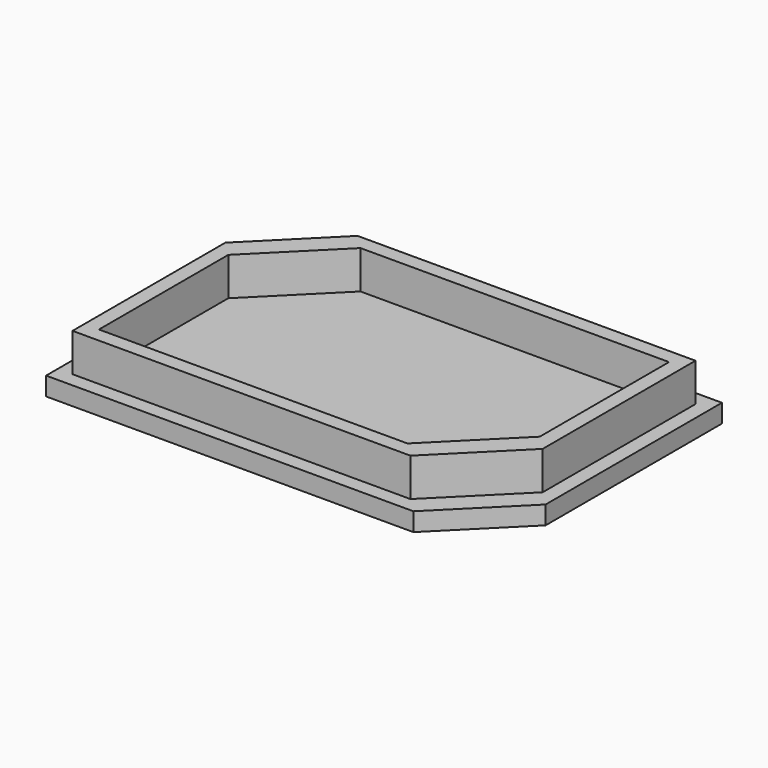
from build123d import *

# Parameters (mm, degrees)
F0_W     = 30
F0_H     = 20
F1_DEPTH = 1.25
F2_W     = 28
F2_H     = 18
F3_DEPTH = 2.6
F4_W     = 26
F4_H     = 16
F5_DEPTH = 2.6
F6_SIZE  = 5
F7_SIZE  = 5


with BuildPart() as f1:
    # F0 (on Top) → F1 (new body)
    with BuildSketch(Plane.XY):
        Rectangle(F0_W, F0_H)
    extrude(amount=F1_DEPTH)

    # F2 (on face) → F3 (join)
    with BuildSketch(Plane.XY.offset(1.25)):
        Rectangle(F2_W, F2_H)
    extrude(amount=F3_DEPTH)

    # F4 (on face) → F5 (cut)
    with BuildSketch(Plane.XY.offset(3.85)):
        Rectangle(F4_W, F4_H)
    extrude(amount=-F5_DEPTH, mode=Mode.SUBTRACT)

    # F6
    f6_edges = [f1.edges().sort_by_distance(p)[0] for p in [
        (-13, 8, 2.55),
        (13, -8, 2.55),
        (-14, 9, 2.55),
        (14, -9, 2.55),
    ]]
    chamfer(f6_edges, length=F6_SIZE)

    # F7
    f7_edges = [f1.edges().sort_by_distance(p)[0] for p in [
        (15, -10, 0.625),
        (-15, 10, 0.625),
    ]]
    chamfer(f7_edges, length=F7_SIZE)


solid = f1.part
